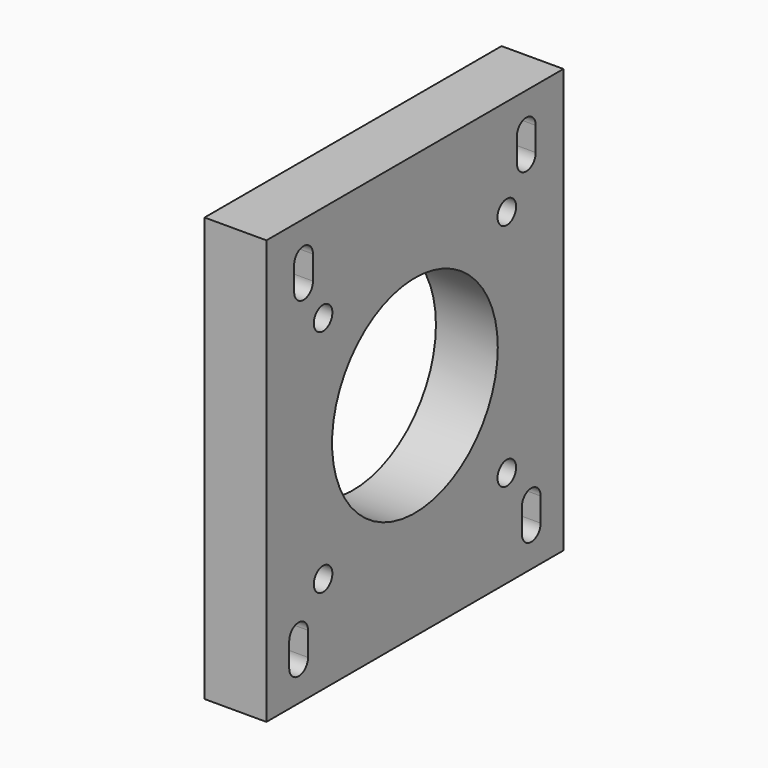
from build123d import *

# Parameters (mm, degrees)
F0_W     = 76.2
F0_H     = 87.0204
F0_R     = 2.3876
F0_R_2   = 21.2598
F1_DEPTH = 12.7


with BuildPart() as f1:
    # F0 (on Right) → F1 (new body)
    with BuildSketch(Plane.YZ):
        Rectangle(F0_W, F0_H)
        with BuildLine():
            ThreePointArc((-32.258, -31.2928), (-29.845, -28.8798), (-27.432, -31.2928))
            Line((-27.432, -31.2928), (-27.432, -36.195))
            ThreePointArc((-27.432, -36.195), (-29.845, -38.608), (-32.258, -36.195))
            Line((-32.258, -36.195), (-32.258, -31.2928))
        make_face(mode=Mode.SUBTRACT)
        with Locations((-23.5712, -23.5712)):
            Circle(F0_R, mode=Mode.SUBTRACT)
        with BuildLine():
            ThreePointArc((32.258, -36.195), (29.845, -38.608), (27.432, -36.195))
            Line((27.432, -36.195), (27.432, -31.2928))
            ThreePointArc((27.432, -31.2928), (29.845, -28.8798), (32.258, -31.2928))
            Line((32.258, -31.2928), (32.258, -36.195))
        make_face(mode=Mode.SUBTRACT)
        with Locations((23.5712, -23.5712)):
            Circle(F0_R, mode=Mode.SUBTRACT)
        with Locations((-23.5712, 23.5712)):
            Circle(F0_R, mode=Mode.SUBTRACT)
        with BuildLine():
            ThreePointArc((-30.988, 36.195), (-28.575, 38.608), (-26.162, 36.195))
            Line((-26.162, 36.195), (-26.162, 31.2928))
            ThreePointArc((-26.162, 31.2928), (-28.575, 28.8798), (-30.988, 31.2928))
            Line((-30.988, 31.2928), (-30.988, 36.195))
        make_face(mode=Mode.SUBTRACT)
        Circle(F0_R_2, mode=Mode.SUBTRACT)
        with Locations((23.5712, 23.5712)):
            Circle(F0_R, mode=Mode.SUBTRACT)
        with BuildLine():
            ThreePointArc((26.162, 36.195), (28.575, 38.608), (30.988, 36.195))
            Line((30.988, 36.195), (30.988, 31.2928))
            ThreePointArc((30.988, 31.2928), (28.575, 28.8798), (26.162, 31.2928))
            Line((26.162, 31.2928), (26.162, 36.195))
        make_face(mode=Mode.SUBTRACT)
    extrude(amount=F1_DEPTH)


solid = f1.part
